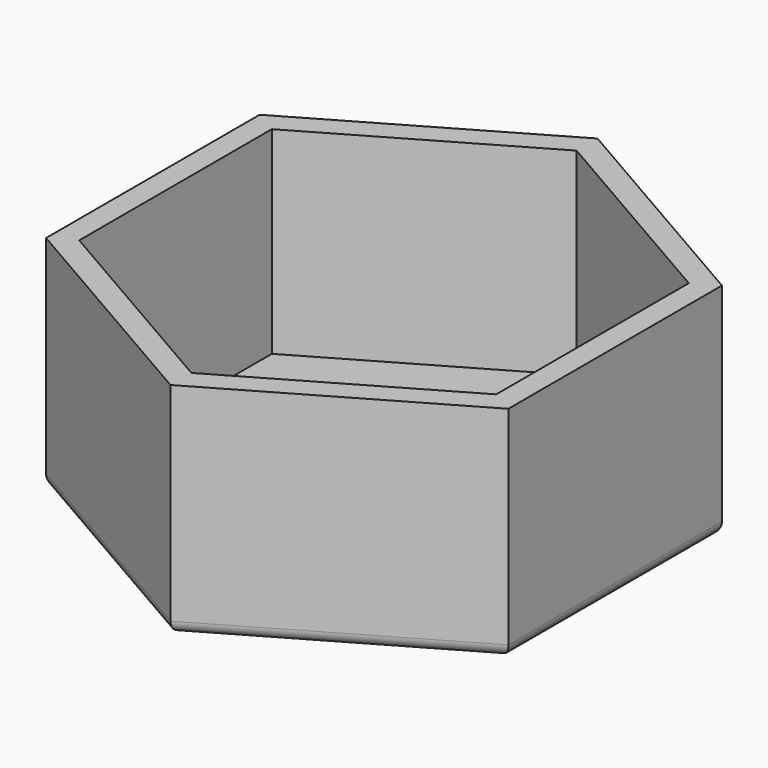
from build123d import *

# Parameters (mm, degrees)
F1_DEPTH = 17.5
F2_T     = -1.8
F3_R     = 1


with BuildPart() as f1:
    # F0 (on Top) → F1 (new body)
    with BuildSketch(Plane.XY):
        Polygon((-18.35, 10.594377), (-18.35, -10.594377), (0, -21.188755), (18.35, -10.594377), (18.35, 10.594377), (0, 21.188755), align=None)
    extrude(amount=F1_DEPTH)

    # F2
    f2_openings = [f1.faces().sort_by_distance(p)[0] for p in [
        (0, 0, 17.5),
    ]]
    offset(amount=F2_T, openings=f2_openings)

    # F3
    f3_edges = [f1.edges().sort_by_distance(p)[0] for p in [
        (-18.35, 0, 0),
        (-9.175, -15.891566, 0),
        (9.175, -15.891566, 0),
        (18.35, 0, 0),
        (9.175, 15.891566, 0),
        (-9.175, 15.891566, 0),
    ]]
    fillet(f3_edges, radius=F3_R)


solid = f1.part
